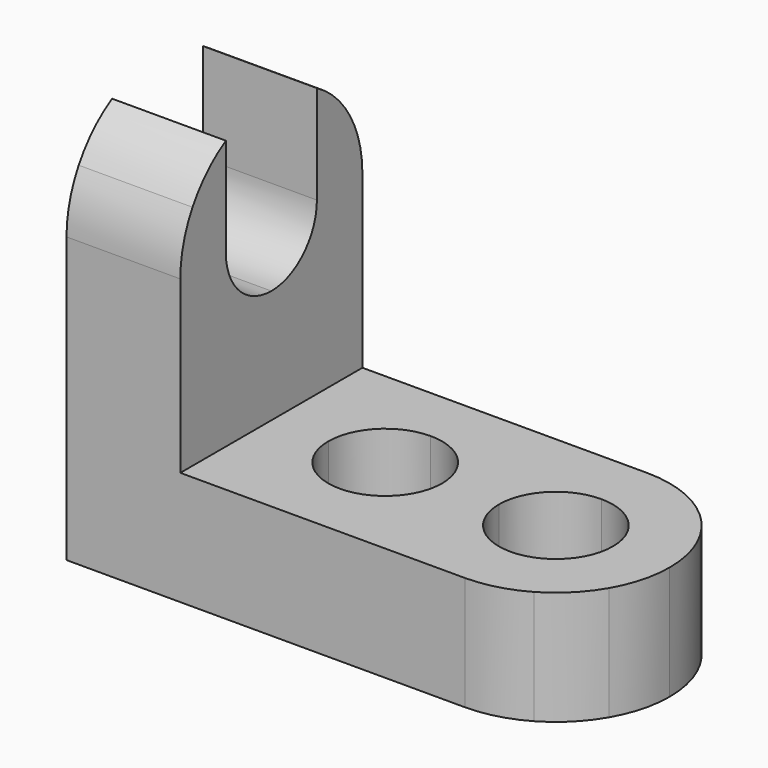
from build123d import *

# Parameters (mm, degrees)
F0_W     = 57.15
F0_H     = 44.45
F1_DEPTH = 25.4
F2_W     = 44.45
F2_H     = 31.75
F3_DEPTH = 25.401
F5_DEPTH = 12.701
F7_DEPTH = 25.4


with BuildPart() as f1:
    # F0 (on Front) → F1 (new body)
    with BuildSketch(Plane.XZ):
        with Locations((-6.2023242936, 14.8889736688)):
            Rectangle(F0_W, F0_H)
    extrude(amount=F1_DEPTH)

    # F2 (on face) → F3 (cut, through all)
    with BuildSketch(Plane.XZ.offset(25.4)):
        with Locations((0.1476757064, 21.2389736688)):
            Rectangle(F2_W, F2_H)
    extrude(amount=-F3_DEPTH, mode=Mode.SUBTRACT)

    # F4 (on face) → F5 (cut, through all)
    with BuildSketch(Plane.XY.offset(5.3639736688)):
        with BuildLine():
            ThreePointArc((16.0226757064, -12.7), (14.1628037685, -8.209871941), (9.6726757108, -6.35))
            Line((9.6726757064, -6.35), (9.6726757064, -12.7))
            Line((9.6726757064, -12.7), (9.6726757064, -19.05))
            ThreePointArc((9.6726757179, -19.05), (14.162803771, -17.1901280565), (16.0226757064, -12.7))
        make_face()
        with BuildLine():
            ThreePointArc((9.6726757108, -6.35), (5.1825476475, -8.2098719379), (3.3226757064, -12.7))
            ThreePointArc((3.3226757064, -12.7), (5.18254765, -17.1901280646), (9.6726757179, -19.05))
            Line((9.6726757064, -19.05), (9.6726757064, -12.7))
            Line((9.6726757064, -12.7), (9.6726757064, -6.35))
        make_face()
        with BuildLine():
            ThreePointArc((-9.3773242936, -6.35), (-13.8674523541, -8.2098719395), (-15.7273242936, -12.7))
            ThreePointArc((-15.7273242936, -12.7), (-13.8674523541, -17.1901280605), (-9.3773242936, -19.05))
            ThreePointArc((-9.3773242936, -19.05), (-4.887196233, -17.1901280605), (-3.0273242936, -12.7))
            ThreePointArc((-3.0273242936, -12.7), (-4.887196233, -8.2098719395), (-9.3773242936, -6.35))
        make_face()
        with BuildLine():
            Line((16.0226757064, 0), (16.0226757064, -1.7014773719))
            ThreePointArc((16.0226757064, -1.7014773719), (18.6529318275, -3.7197438789), (20.6711983345, -6.35))
            Line((20.6711983345, -6.35), (22.3726757064, -6.35))
            Line((22.3726757064, -6.35), (22.3726757064, 0))
            Line((22.3726757064, 0), (16.0226757064, 0))
        make_face()
        with BuildLine():
            Line((16.0226757064, 0), (9.6726757064, 0))
            ThreePointArc((9.6726757064, 0), (12.9596775792, -0.4327420061), (16.0226757064, -1.7014773719))
            Line((16.0226757064, -1.7014773719), (16.0226757064, 0))
        make_face()
        with BuildLine():
            Line((22.3726757064, -6.35), (20.6711983345, -6.35))
            ThreePointArc((20.6711983345, -6.35), (21.9399337003, -9.4129981272), (22.3726757064, -12.7))
            Line((22.3726757064, -12.7), (22.3726757064, -6.35))
        make_face()
        with BuildLine():
            Line((22.3726757064, -19.05), (22.3726757064, -12.7))
            ThreePointArc((22.3726757064, -12.7), (21.9399337003, -15.9870018728), (20.6711983345, -19.05))
            Line((20.6711983345, -19.05), (22.3726757064, -19.05))
        make_face()
        with BuildLine():
            ThreePointArc((20.6711983345, -19.05), (18.6529318275, -21.6802561211), (16.0226757064, -23.6985226281))
            Line((16.0226757064, -23.6985226281), (16.0226757064, -25.4))
            Line((16.0226757064, -25.4), (22.3726757064, -25.4))
            Line((22.3726757064, -25.4), (22.3726757064, -19.05))
            Line((22.3726757064, -19.05), (20.6711983345, -19.05))
        make_face()
        with BuildLine():
            ThreePointArc((16.0226757064, -23.6985226281), (12.9596775792, -24.9672579939), (9.6726757064, -25.4))
            Line((9.6726757064, -25.4), (16.0226757064, -25.4))
            Line((16.0226757064, -25.4), (16.0226757064, -23.6985226281))
        make_face()
    extrude(amount=-F5_DEPTH, mode=Mode.SUBTRACT)

    # F6 (on face) → F7 (cut)
    with BuildSketch(Plane.YZ.offset(-22.0773242936)):
        with BuildLine():
            Line((-19.05, 30.7639736688), (-19.05, 24.4139736688))
            ThreePointArc((-19.05, 24.4139736688), (-17.1901280605, 28.9041017294), (-12.7, 30.7639736688))
            Line((-12.7, 30.7639736688), (-19.05, 30.7639736688))
        make_face()
        with BuildLine():
            Line((-6.35, 30.7639736688), (-12.7, 30.7639736688))
            ThreePointArc((-12.7, 30.7639736688), (-8.2098719395, 28.9041017294), (-6.35, 24.4139736688))
            Line((-6.35, 24.4139736688), (-6.35, 30.7639736688))
        make_face()
        with BuildLine():
            ThreePointArc((-12.7, 30.7639736688), (-17.1901280605, 28.9041017294), (-19.05, 24.4139736688))
            Line((-19.05, 24.4139736688), (-12.7, 24.4139736688))
            Line((-12.7, 24.4139736688), (-6.35, 24.4139736688))
            ThreePointArc((-6.35, 24.4139736688), (-8.2098719395, 28.9041017294), (-12.7, 30.7639736688))
        make_face()
        with BuildLine():
            Line((-19.05, 35.4124962969), (-19.05, 30.7639736688))
            Line((-19.05, 30.7639736688), (-12.7, 30.7639736688))
            Line((-12.7, 30.7639736688), (-6.35, 30.7639736688))
            Line((-6.35, 30.7639736688), (-6.35, 35.4124962969))
            ThreePointArc((-6.35, 35.4124962969), (-9.4129981272, 36.6812316627), (-12.7, 37.1139736688))
            ThreePointArc((-12.7, 37.1139736688), (-15.9870018728, 36.6812316627), (-19.05, 35.4124962969))
        make_face()
        with BuildLine():
            ThreePointArc((-23.6985226281, 30.7639736688), (-21.6802561211, 33.3942297899), (-19.05, 35.4124962969))
            Line((-19.05, 35.4124962969), (-19.05, 37.1139736688))
            Line((-19.05, 37.1139736688), (-25.4, 37.1139736688))
            Line((-25.4, 37.1139736688), (-25.4, 30.7639736688))
            Line((-25.4, 30.7639736688), (-23.6985226281, 30.7639736688))
        make_face()
        with BuildLine():
            ThreePointArc((-1.7014773719, 30.7639736688), (-0.4327420061, 27.7009755416), (0, 24.4139736688))
            Line((0, 24.4139736688), (0, 30.7639736688))
            Line((0, 30.7639736688), (-1.7014773719, 30.7639736688))
        make_face()
        with BuildLine():
            Line((-25.4, 30.7639736688), (-25.4, 24.4139736688))
            ThreePointArc((-25.4, 24.4139736688), (-24.9672579939, 27.7009755416), (-23.6985226281, 30.7639736688))
            Line((-23.6985226281, 30.7639736688), (-25.4, 30.7639736688))
        make_face()
        with BuildLine():
            Line((-19.05, 37.1139736688), (-19.05, 35.4124962969))
            ThreePointArc((-19.05, 35.4124962969), (-15.9870018728, 36.6812316627), (-12.7, 37.1139736688))
            Line((-12.7, 37.1139736688), (-19.05, 37.1139736688))
        make_face()
        with BuildLine():
            Line((-6.35, 37.1139736688), (-12.7, 37.1139736688))
            ThreePointArc((-12.7, 37.1139736688), (-9.4129981272, 36.6812316627), (-6.35, 35.4124962969))
            Line((-6.35, 35.4124962969), (-6.35, 37.1139736688))
        make_face()
        with BuildLine():
            Line((-6.35, 37.1139736688), (-6.35, 35.4124962969))
            ThreePointArc((-6.35, 35.4124962969), (-3.7197438789, 33.3942297899), (-1.7014773719, 30.7639736688))
            Line((-1.7014773719, 30.7639736688), (0, 30.7639736688))
            Line((0, 30.7639736688), (0, 37.1139736688))
            Line((0, 37.1139736688), (-6.35, 37.1139736688))
        make_face()
        with BuildLine():
            Line((-12.7, 24.4139736688), (-19.05, 24.4139736688))
            ThreePointArc((-19.05, 24.4139736688), (-17.1901280605, 19.9238456083), (-12.7, 18.0639736688))
            ThreePointArc((-12.7, 18.0639736688), (-8.2098719395, 19.9238456083), (-6.35, 24.4139736688))
            Line((-6.35, 24.4139736688), (-12.7, 24.4139736688))
        make_face()
    extrude(amount=-F7_DEPTH, mode=Mode.SUBTRACT)


solid = f1.part
